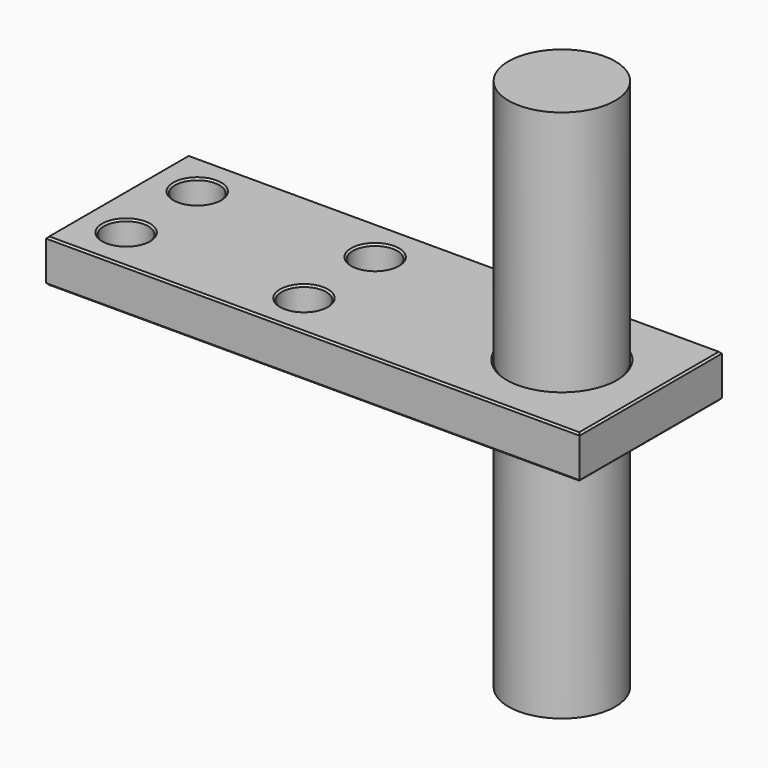
from build123d import *

# Parameters (mm, degrees)
F0_W     = 150
F0_H     = 50
F0_R     = 6.25
F0_R_2   = 15
F1_DEPTH = 6
F2_SIZE  = 0.5
F3_DEPTH = 75


with BuildPart() as f1:
    # F0 (on Top) → F1 (new body, symmetric)
    with BuildSketch(Plane.XY):
        Rectangle(F0_W, F0_H)
        with Locations((-62.5, -12.5)):
            Circle(F0_R, mode=Mode.SUBTRACT)
        with Locations((-12.5, -12.5)):
            Circle(F0_R, mode=Mode.SUBTRACT)
        with Locations((-62.5, 12.5)):
            Circle(F0_R, mode=Mode.SUBTRACT)
        with Locations((-12.5, 12.5)):
            Circle(F0_R, mode=Mode.SUBTRACT)
        with Locations((50, 0)):
            Circle(F0_R_2, mode=Mode.SUBTRACT)
    extrude(amount=F1_DEPTH, both=True)

    # F2
    f2_edges = [f1.edges().sort_by_distance(p)[0] for p in [
        (0, -25, 6),
        (75, 0, 6),
        (0, 25, 6),
        (-75, 0, 6),
        (-68.75, -12.5, 6),
        (-18.75, -12.5, 6),
        (-68.75, 12.5, 6),
        (-18.75, 12.5, 6),
        (35, 0, 6),
        (0, -25, -6),
        (75, 0, -6),
        (0, 25, -6),
        (-75, 0, -6),
        (-68.75, -12.5, -6),
        (-18.75, -12.5, -6),
        (-68.75, 12.5, -6),
        (-18.75, 12.5, -6),
        (35, 0, -6),
    ]]
    chamfer(f2_edges, length=F2_SIZE)


with BuildPart() as f3:
    # F0 (on Top) → F3 (new body, symmetric)
    with BuildSketch(Plane.XY):
        with Locations((50, 0)):
            Circle(F0_R_2)
    extrude(amount=F3_DEPTH, both=True)


solid = Compound([f1.part, f3.part])
